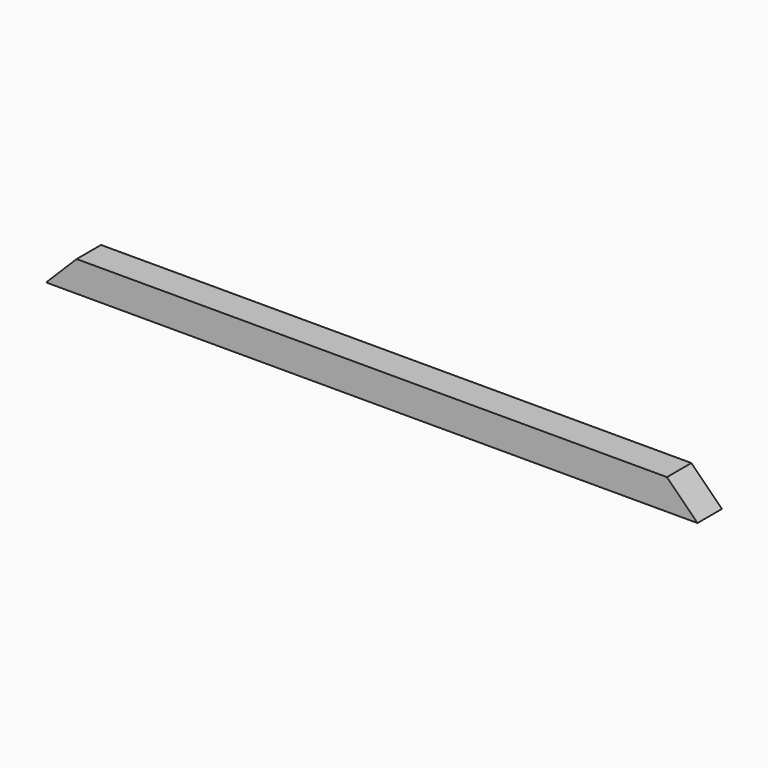
from build123d import *

# Parameters (mm, degrees)
F0_W     = 19.05
F0_H     = 19.05
F1_DEPTH = 406.4
F3_DEPTH = 19.05


with BuildPart() as f1:
    # F0 (on Right) → F1 (new body)
    with BuildSketch(Plane.YZ):
        with Locations((9.525, 9.525)):
            Rectangle(F0_W, F0_H)
    extrude(amount=F1_DEPTH)

    # F2 (on face) → F3 (cut)
    with BuildSketch(Plane.XZ):
        Polygon((0, 19.05), (0, 0), (19.05, 19.05), align=None)
        Polygon((387.35, 19.05), (406.4, 0), (406.4, 19.05), align=None)
    extrude(amount=-F3_DEPTH, mode=Mode.SUBTRACT)


solid = f1.part
